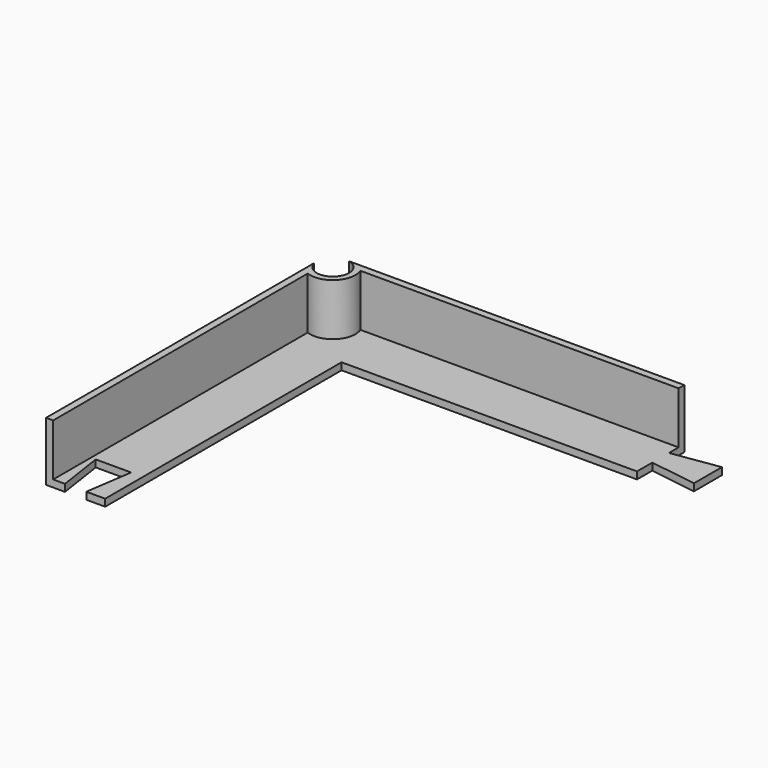
from build123d import *

# Parameters (mm, degrees)
F1_DEPTH = 3
F2_DEPTH = 25
F3_DEPTH = 25


with BuildPart() as f1:
    # F0 (on Top) → F1 (new body)
    with BuildSketch(Plane.XY):
        with BuildLine():
            Line((0, 141.9), (0, 147))
            Line((0, 147), (-134.61055, 147))
            ThreePointArc((-134.61055, 147), (-136.772472, 136.772472), (-147, 134.61055))
            Line((-147, 134.61055), (-147, 0))
            Line((-147, 0), (-142, 0))
            Line((-142, 0), (-145, 20))
            Line((-145, 20), (-130, 20))
            Line((-130, 20), (-133, 0))
            Line((-133, 0), (-125, 0))
            Line((-125, 0), (-125, 125))
            Line((-125, 125), (0, 125))
            Line((0, 125), (0, 133.1))
            Line((0, 133.1), (20, 130.1))
            Line((20, 130.1), (20, 144.9))
            Line((20, 144.9), (0, 141.9))
        make_face()
    extrude(amount=F1_DEPTH)

    # F0 (on Top) → F2 (join)
    with BuildSketch(Plane.XY):
        with BuildLine():
            ThreePointArc((-147, 137.61055), (-148.90564, 139.395179), (-150, 141.765568))
            Line((-150, 141.765568), (-150, 0))
            Line((-150, 0), (-147, 0))
            Line((-147, 0), (-147, 134.61055))
            Line((-147, 134.61055), (-147, 137.61055))
        make_face()
        with BuildLine():
            Line((0, 150), (-141.765568, 150))
            ThreePointArc((-141.765568, 150), (-139.395179, 148.90564), (-137.61055, 147))
            Line((-137.61055, 147), (-134.61055, 147))
            Line((-134.61055, 147), (0, 147))
            Line((0, 147), (0, 150))
        make_face()
    extrude(amount=F2_DEPTH)

    # F0 (on Top) → F3 (join)
    with BuildSketch(Plane.XY):
        with BuildLine():
            Line((-134.61055, 147), (-137.61055, 147))
            ThreePointArc((-137.61055, 147), (-138.565994, 138.565994), (-147, 137.61055))
            Line((-147, 137.61055), (-147, 134.61055))
            ThreePointArc((-147, 134.61055), (-136.772472, 136.772472), (-134.61055, 147))
        make_face()
    extrude(amount=F3_DEPTH)


solid = f1.part
